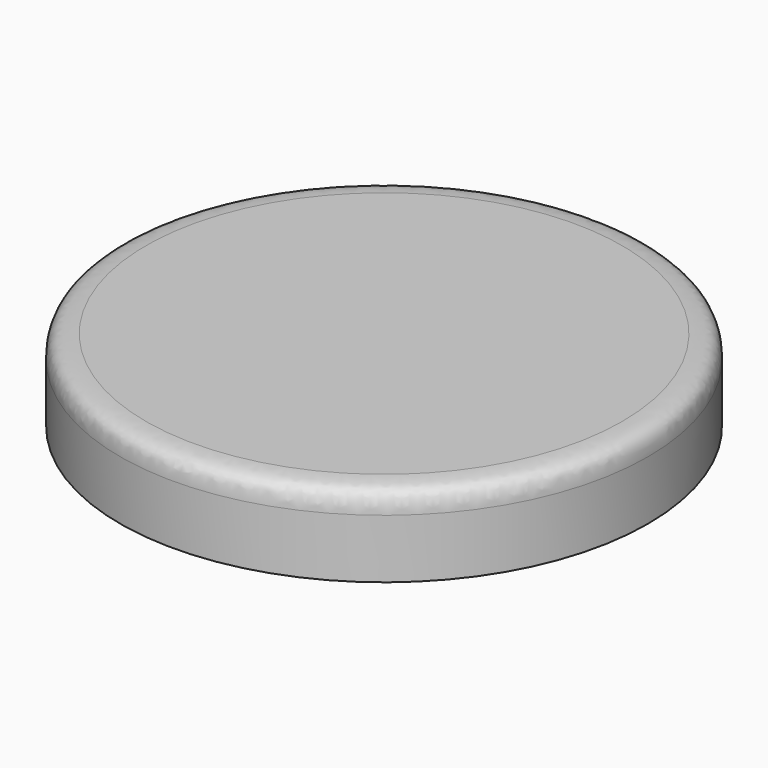
from build123d import *


with BuildPart() as f1:
    # F0 (on Front) → F1 (revolve)
    with BuildSketch(Plane.XZ):
        with BuildLine():
            Line((11.804793, 2.709576), (11.804793, 0))
            Line((11.804793, 0), (12.944569, 0))
            Line((12.944569, 0), (12.944569, 2.892871))
            add(Edge.make_bspline(
                [(11.677033, 4.002839), (12.605164, 4.002839), (12.944569, 3.793302), (12.944569, 2.892871)],
                knots=[0, 0, 0, 0, 1.684837, 1.684837, 1.684837, 1.684837], degree=3))
            Line((11.677033, 4.002839), (0, 4.002839))
            Line((0, 4.002839), (0, 3.216153))
            Line((0, 3.216153), (11.241322, 3.216153))
            Line((11.241322, 3.216153), (11.804793, 3.216153))
            Line((11.804793, 3.216153), (11.804793, 2.709576))
        make_face()
    revolve(axis=Axis((0, 0, 2.187728), (0, 0, -1)))


solid = f1.part
